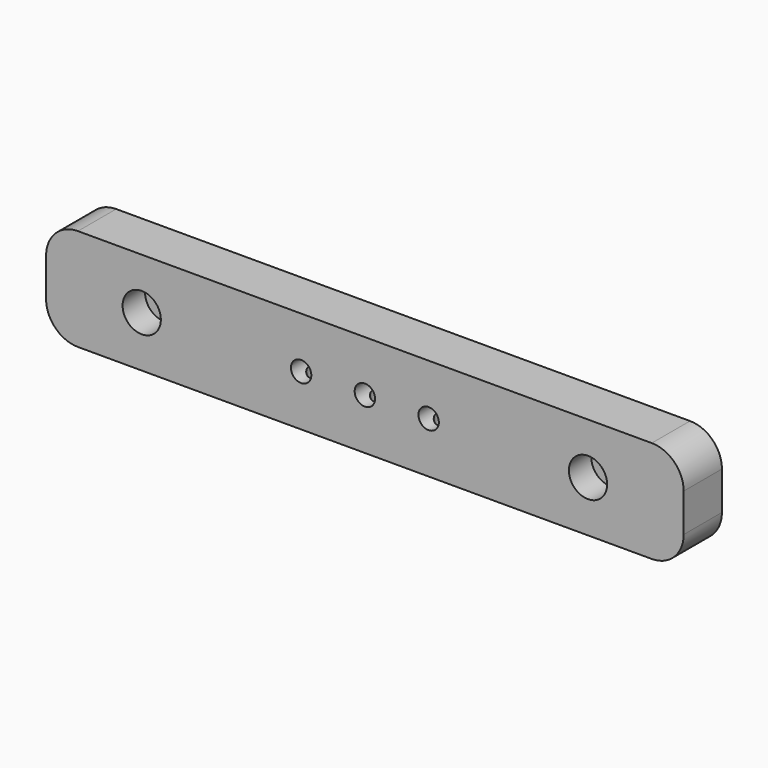
from build123d import *

# Parameters (mm, degrees)
F0_W      = 100
F0_H      = 16
F1_DEPTH  = 7.5
F2_R      = 1.6
F3_DEPTH  = 7.501
F2_R_2    = 3
F4_DEPTH  = 4.4
F5_R      = 1.6
F6_DEPTH  = 7.501
F7_W      = 50
F7_H      = 10
F7_R      = 1.6
F8_DEPTH  = 0.5
F8_FACE_R = 1.6
F9_DEPTH  = 1.6
F10_R     = 1.5
F11_R     = 1.25
F12_DEPTH = 8
F13_R     = 5
F14_DEPTH = 8
F15_DEPTH = 7.501


with BuildPart() as f1:
    # F0 (on Front) → F1 (new body)
    with BuildSketch(Plane.XZ):
        Rectangle(F0_W, F0_H)
    extrude(amount=F1_DEPTH)

    # F2 (on face) → F3 (cut, through all)
    with BuildSketch(Plane.XZ.offset(7.5)):
        with Locations((35, 0)):
            Circle(F2_R)
        with Locations((-35, 0)):
            Circle(F2_R)
    extrude(amount=-F3_DEPTH, mode=Mode.SUBTRACT)

    # F2 (on face) → F4 (cut)
    with BuildSketch(Plane.XZ.offset(7.5)):
        with Locations((35, 0)):
            Circle(F2_R_2)
        with Locations((35, 0)):
            Circle(F2_R, mode=Mode.SUBTRACT)
        with Locations((-35, 0)):
            Circle(F2_R_2)
        with Locations((-35, 0)):
            Circle(F2_R, mode=Mode.SUBTRACT)
    extrude(amount=-F4_DEPTH, mode=Mode.SUBTRACT)

    # F5 (on face) → F6 (cut, through all)
    with BuildSketch(Plane.XZ.offset(7.5)):
        with Locations((10, 0)):
            Circle(F5_R)
        with Locations((-10, 0)):
            Circle(F5_R)
    extrude(amount=-F6_DEPTH, mode=Mode.SUBTRACT)

    # F7 (on face) → F8 (cut)
    with BuildSketch(Plane(origin=(0, 0, 0), x_dir=(-1, 0, 0), z_dir=(0, 1, 0))):
        Rectangle(F7_W, F7_H)
        with BuildLine():
            ThreePointArc((-18.1, 2.1), (-18.453553, 2.953553), (-17.6, 2.6))
            Line((-17.6, 2.6), (1.6, 2.6))
            ThreePointArc((1.6, 2.6), (2.453553, 2.953553), (2.1, 2.1))
            Line((2.1, 2.1), (2.1, -2.1))
            ThreePointArc((2.1, -2.1), (2.453553, -2.953553), (1.6, -2.6))
            Line((1.6, -2.6), (-17.6, -2.6))
            ThreePointArc((-17.6, -2.6), (-18.453553, -2.953553), (-18.1, -2.1))
            Line((-18.1, -2.1), (-18.1, 2.1))
        make_face(mode=Mode.SUBTRACT)
        with Locations((10, 0)):
            Circle(F7_R, mode=Mode.SUBTRACT)
    extrude(amount=-F8_DEPTH, mode=Mode.SUBTRACT)

    # F8_face (on face) → F9 (cut)
    with BuildSketch(Plane(origin=(7.838104, 0, 0), x_dir=(1, 0, 0), z_dir=(0, 1, 0))):
        with BuildLine():
            Line((9.761896, 2.6), (-9.438104, 2.6))
            ThreePointArc((-9.438104, 2.6), (-10.291658, 2.953553), (-9.938104, 2.1))
            Line((-9.938104, 2.1), (-9.938104, -2.1))
            ThreePointArc((-9.938104, -2.1), (-10.291658, -2.953553), (-9.438104, -2.6))
            Line((-9.438104, -2.6), (9.761896, -2.6))
            ThreePointArc((9.761896, -2.6), (10.615449, -2.953553), (10.261896, -2.1))
            Line((10.261896, -2.1), (10.261896, 2.1))
            ThreePointArc((10.261896, 2.1), (10.615449, 2.953553), (9.761896, 2.6))
        make_face()
        with Locations((2.161896, 0)):
            Circle(F8_FACE_R, mode=Mode.SUBTRACT)
    extrude(amount=-F9_DEPTH, mode=Mode.SUBTRACT)

    # F10
    f10_edges = [f1.edges().sort_by_distance(p)[0] for p in [
        (-25, -0.25, 5),
        (-25, -0.25, -5),
        (25, -0.25, -5),
        (25, -0.25, 5),
    ]]
    fillet(f10_edges, radius=F10_R)

    # F11 (on face) → F12 (cut)
    with BuildSketch(Plane(origin=(0, 0, -8), x_dir=(1, 0, 0), z_dir=(0, 0, -1))):
        with Locations((10, 4.5)):
            Circle(F11_R)
        with Locations((0, 4.5)):
            Circle(F11_R)
    extrude(amount=-F12_DEPTH, mode=Mode.SUBTRACT)

    # F13
    f13_edges = [f1.edges().sort_by_distance(p)[0] for p in [
        (-50, -3.75, 8),
        (-50, -3.75, -8),
        (50, -3.75, 8),
        (50, -3.75, -8),
    ]]
    fillet(f13_edges, radius=F13_R)

    # F11 (on face) → F14 (cut)
    with BuildSketch(Plane(origin=(0, 0, -8), x_dir=(1, 0, 0), z_dir=(0, 0, -1))):
        with Locations((10, 4.5)):
            Circle(F11_R)
        with Locations((0, 4.5)):
            Circle(F11_R)
        with Locations((-10, 4.5)):
            Circle(F11_R)
    extrude(amount=-F14_DEPTH, mode=Mode.SUBTRACT)

    # F5 (on face) → F15 (cut, through all)
    with BuildSketch(Plane.XZ.offset(7.5)):
        with Locations((10, 0)):
            Circle(F5_R)
        with Locations((-10, 0)):
            Circle(F5_R)
        Circle(F5_R)
    extrude(amount=-F15_DEPTH, mode=Mode.SUBTRACT)


solid = f1.part
